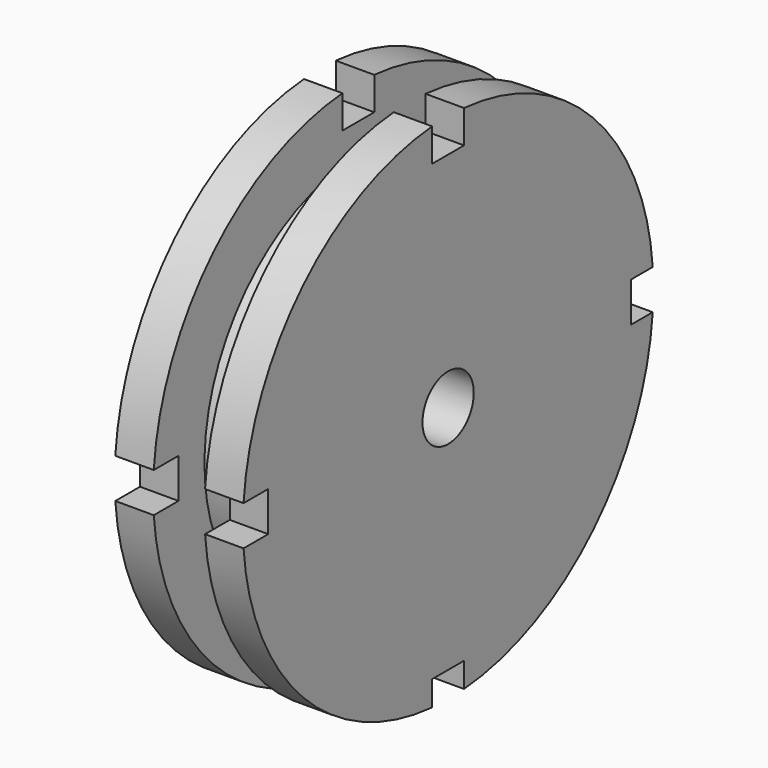
from build123d import *

# Parameters (mm, degrees)
F2_W     = 7.873472
F2_H     = 13.34139
F2_W_2   = 10.9754
F2_H_2   = 7.873472
F2_H_3   = 10.170438
F2_W_3   = 12.53643
F3_DEPTH = 25.401


with BuildPart() as f1:
    # F0 (on Front) → F1 (revolve)
    with BuildSketch(Plane.XZ):
        Polygon((-12.7, 6.35), (12.7, 6.35), (12.7, 50.8), (5.08, 50.8), (5.08, 38.1), (-5.08, 38.1), (-5.08, 50.8), (-12.7, 50.8), align=None)
    revolve(axis=Axis((6.966796, 0, 0), (1, 0, 0)))

    # F2 (on face) → F3 (cut, through all)
    with BuildSketch(Plane.YZ.offset(12.7)):
        with Locations((0, 50.8)):
            Rectangle(F2_W, F2_H)
        with Locations((50.8, 0)):
            Rectangle(F2_W_2, F2_H_2)
        with Locations((0, -50.8)):
            Rectangle(F2_W, F2_H_3)
        with Locations((-50.8, 0)):
            Rectangle(F2_W_3, F2_H_2)
    extrude(amount=-F3_DEPTH, mode=Mode.SUBTRACT)


solid = f1.part
